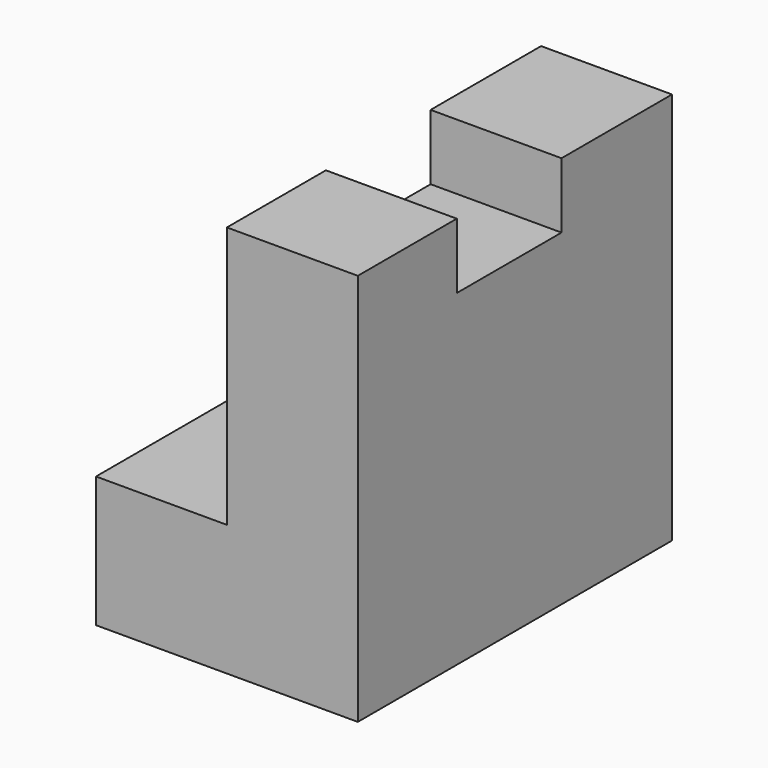
from build123d import *

# Parameters (mm, degrees)
F1_DEPTH = 38.1
F2_W     = 12.7
F2_H     = 12.000482
F2_H_2   = 13.399518
F3_DEPTH = 6.35


with BuildPart() as f1:
    # F0 (on Front) → F1 (new body)
    with BuildSketch(Plane.XZ):
        Polygon((0, 12.7), (0, 0), (25.4, 0), (25.4, 31.75), (12.7, 31.75), (12.7, 12.7), align=None)
    extrude(amount=F1_DEPTH)

    # F2 (on face) → F3 (join)
    with BuildSketch(Plane.XY.offset(31.75)):
        with Locations((19.05, -32.099759)):
            Rectangle(F2_W, F2_H)
        with Locations((19.05, -6.699759)):
            Rectangle(F2_W, F2_H_2)
    extrude(amount=F3_DEPTH)


solid = f1.part
